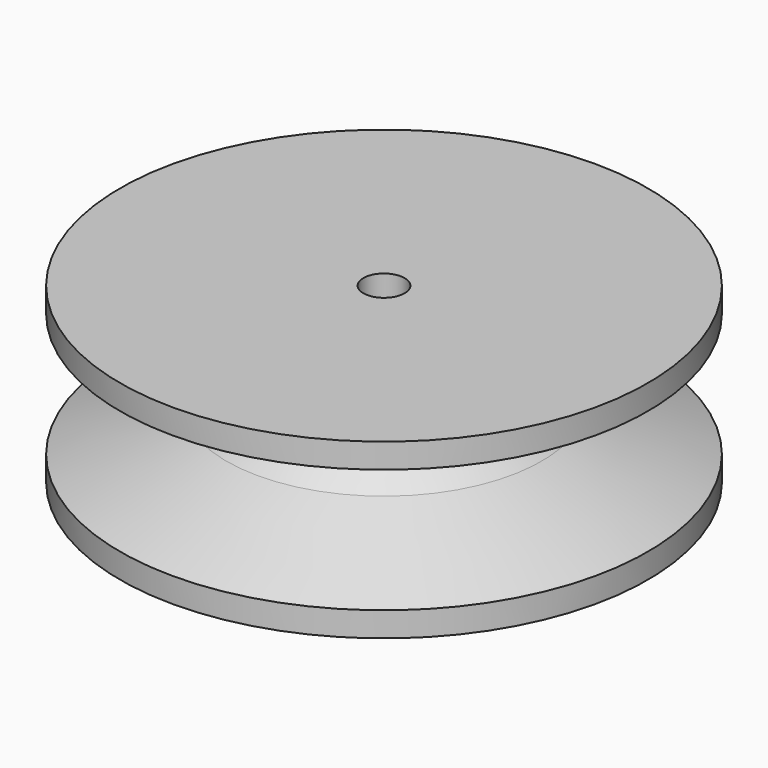
from build123d import *

# Parameters (mm, degrees)
F2_R     = 2.5
F3_DEPTH = 21


with BuildPart() as f1:
    # F0 (on Right) → F1 (revolve)
    with BuildSketch(Plane.YZ):
        Polygon((-160.7954752429, 0), (-128.7954752429, 0), (-128.7954752429, 21), (-160.7954752429, 21), (-160.7954752429, 18), (-147.9084072946, 12.5297642012), (-144.7954752429, 10.5), (-147.9084072946, 8.4702381086), (-160.7954752429, 3.0000023098), align=None)
    revolve(axis=Axis((0, -128.7954752429, 10.5), (0, 0, 1)))

    # F2 (on face) → F3 (cut, through all)
    with BuildSketch(Plane.XY.offset(21)):
        with Locations((0, -128.7954752429)):
            Circle(F2_R)
    extrude(amount=-F3_DEPTH, mode=Mode.SUBTRACT)


solid = f1.part
